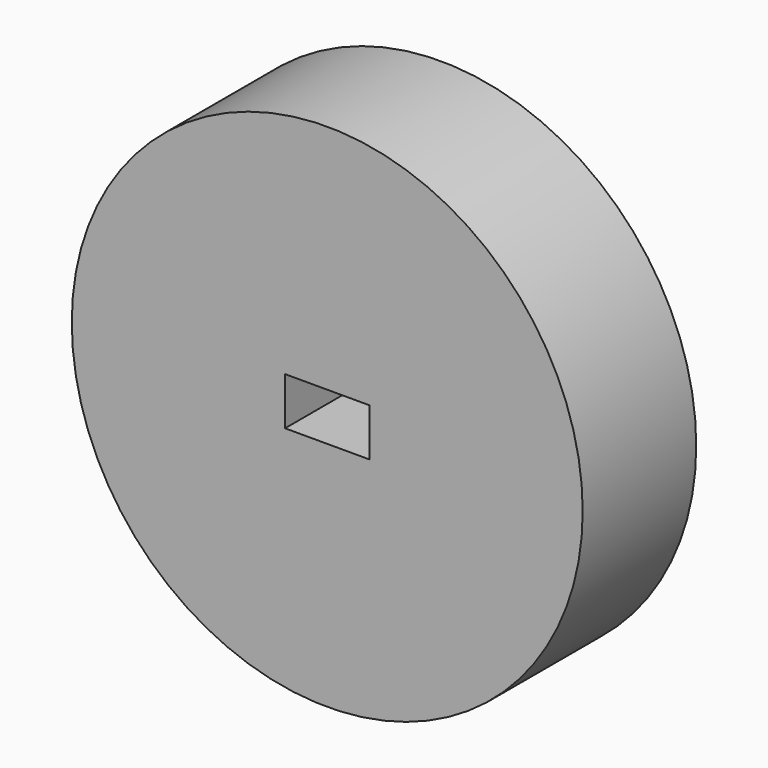
from build123d import *

# Parameters (mm, degrees)
F0_R     = 9
F1_DEPTH = 5
F2_W     = 2.97
F2_H     = 1.68
F3_DEPTH = 9.9


with BuildPart() as f1:
    # F0 (on Front) → F1 (new body)
    with BuildSketch(Plane.XZ):
        Circle(F0_R)
    extrude(amount=F1_DEPTH)

    # F2 (on Front) → F3 (cut)
    with BuildSketch(Plane.XZ):
        Rectangle(F2_W, F2_H)
    extrude(amount=F3_DEPTH, mode=Mode.SUBTRACT)


solid = f1.part
